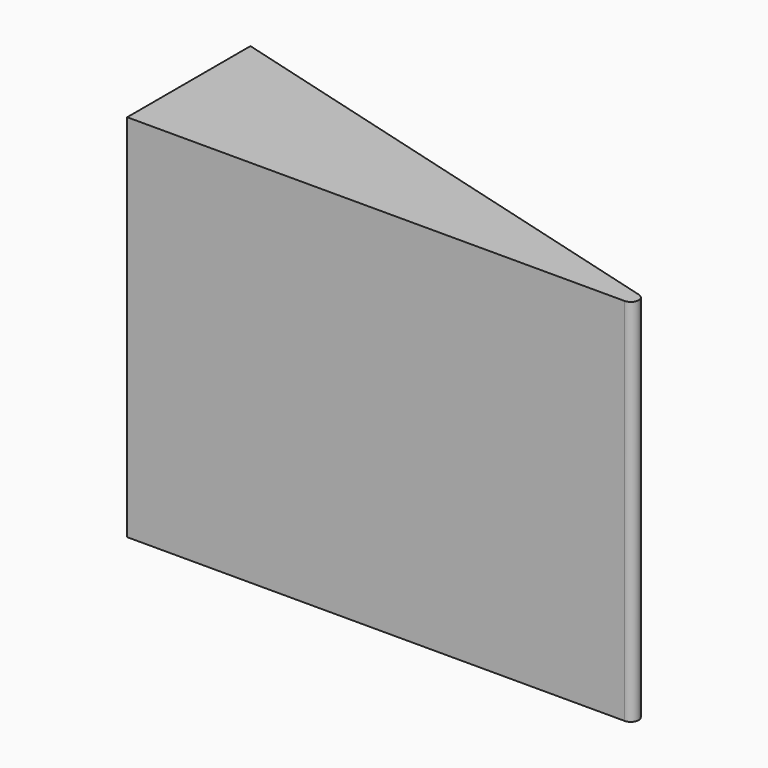
from build123d import *

# Parameters (mm, degrees)
F1_DEPTH = 152.4
F2_R     = 3.212605


with BuildPart() as f1:
    # F0 (on Top) → F1 (new body)
    with BuildSketch(Plane.XY):
        Polygon((0, 63.5), (0, 0), (228.6, 0), align=None)
    extrude(amount=F1_DEPTH)

    # F2
    f2_edges = [f1.edges().sort_by_distance(p)[0] for p in [
        (228.6, 0, 76.2),
    ]]
    fillet(f2_edges, radius=F2_R)


solid = f1.part
